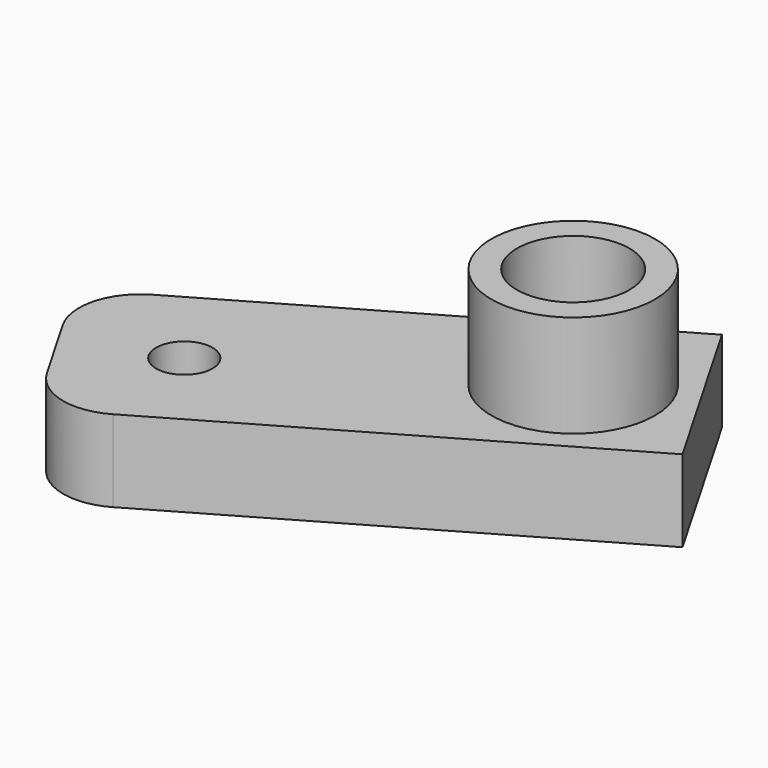
from build123d import *

# Parameters (mm, degrees)
CYLINDER083_R          = 2.75
CYLINDER083_DEPTH      = 7
CYLINDER082_R          = 4
CYLINDER082_DEPTH      = 9
CYLINDER070_R          = 1.38
CYLINDER070_DEPTH      = 10
CYLINDER072_R          = 2.25
CYLINDER072_DEPTH      = 10
BOX040_W               = 25
BOX040_H               = 10
BOX040_DEPTH           = 4
CUT048_PLACEMENT_ANGLE = 30
FILLET007_R            = 3


with BuildPart() as cilindro003:
    # Cylinder083 → Cylinder083 (new body)
    with BuildSketch(Plane(origin=(17, 17, 12), x_dir=(1, 0, 0), z_dir=(0, 0, 1))):
        Circle(CYLINDER083_R)
    extrude(amount=CYLINDER083_DEPTH)


with BuildPart() as obj1:
    # Cylinder082 → Cylinder082 (new body)
    with BuildSketch(Plane(origin=(17, 17, 10), x_dir=(1, 0, 0), z_dir=(0, 0, 1))):
        Circle(CYLINDER082_R)
    extrude(amount=CYLINDER082_DEPTH)

    # Cut054: cut Cilindro003
    add(cilindro003.part, mode=Mode.SUBTRACT)


with BuildPart() as obj1_1:
    # Cut054 placement: moved
    add(obj1.part.moved(Location((21, 102, 52))))


with BuildPart() as cylinder070:
    # Cylinder070 → Cylinder070 (new body)
    with BuildSketch(Plane(origin=(25, 52, 59), x_dir=(1, 0, 0), z_dir=(0, 0, 1))):
        Circle(CYLINDER070_R)
    extrude(amount=CYLINDER070_DEPTH)


with BuildPart() as cylinder072:
    # Cylinder072 → Cylinder072 (new body)
    with BuildSketch(Plane(origin=(40, 52, 59), x_dir=(1, 0, 0), z_dir=(0, 0, 1))):
        Circle(CYLINDER072_R)
    extrude(amount=CYLINDER072_DEPTH)


with BuildPart() as fusion010:
    # Box040 → Box040 (new body)
    with BuildSketch(Plane(origin=(45, 57, 62), x_dir=(-1, 0, 0), z_dir=(0, 0, 1))):
        with Locations((12.5, 5)):
            Rectangle(BOX040_W, BOX040_H)
    extrude(amount=BOX040_DEPTH)

    # Cut047: cut Cylinder072
    add(cylinder072.part, mode=Mode.SUBTRACT)

    # Cut048: cut Cylinder070
    add(cylinder070.part, mode=Mode.SUBTRACT)


with BuildPart() as fusion010_1:
    # Cut048 placement: moved
    add(fusion010.part.moved(Location((31.35, -13.05, 0))).rotate(Axis((31.35, -13.05, 0), (0, 0, 1)), CUT048_PLACEMENT_ANGLE))

    # Fillet007
    fillet007_edges = [fusion010_1.edges().sort_by_distance(p)[0] for p in [
        (20.170508, 46.313448, 64),
        (25.170508, 37.653194, 64),
    ]]
    fillet(fillet007_edges, radius=FILLET007_R)


with BuildPart() as fusion010_2:
    # Fillet007 placement: moved
    add(fusion010_1.part.moved(Location((-2, 67, 0))))

    # Fusion010: union obj1
    add(obj1_1.part)


solid = fusion010_2.part
